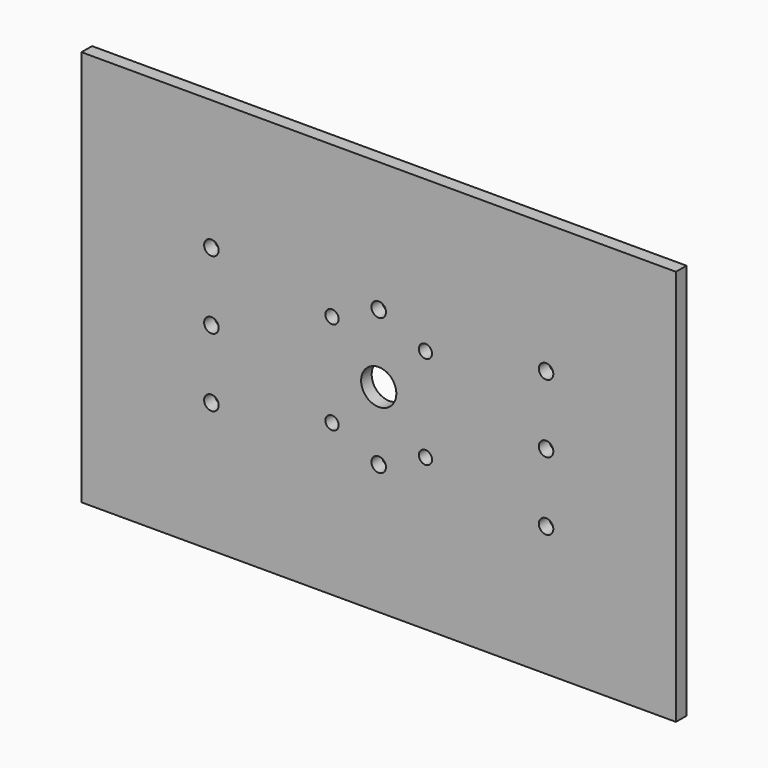
from build123d import *

# Parameters (mm, degrees)
F0_W     = 135
F0_H     = 90
F1_DEPTH = 3
F2_R     = 1.65
F2_R_2   = 1.5
F2_R_3   = 4
F3_DEPTH = 3.001


with BuildPart() as f1:
    # F0 (on Front) → F1 (new body)
    with BuildSketch(Plane.XZ):
        Rectangle(F0_W, F0_H)
    extrude(amount=F1_DEPTH)

    # F2 (on face) → F3 (cut, through all)
    with BuildSketch(Plane.XZ.offset(3)):
        with Locations((0, 15.5)):
            Circle(F2_R)
        with Locations((0, -15.5)):
            Circle(F2_R)
        with Locations((38, 0)):
            Circle(F2_R)
        with Locations((-38, 0)):
            Circle(F2_R)
        with Locations((-38, 15.5)):
            Circle(F2_R)
        with Locations((-38, -15.5)):
            Circle(F2_R)
        with Locations((38, 15.5)):
            Circle(F2_R)
        with Locations((38, -15.5)):
            Circle(F2_R)
        with Locations((10.606602, 10.606602)):
            Circle(F2_R_2)
        with Locations((-10.606602, -10.606602)):
            Circle(F2_R_2)
        with Locations((-10.606602, 10.606602)):
            Circle(F2_R_2)
        with Locations((10.606602, -10.606602)):
            Circle(F2_R_2)
        Circle(F2_R_3)
    extrude(amount=-F3_DEPTH, mode=Mode.SUBTRACT)


solid = f1.part
